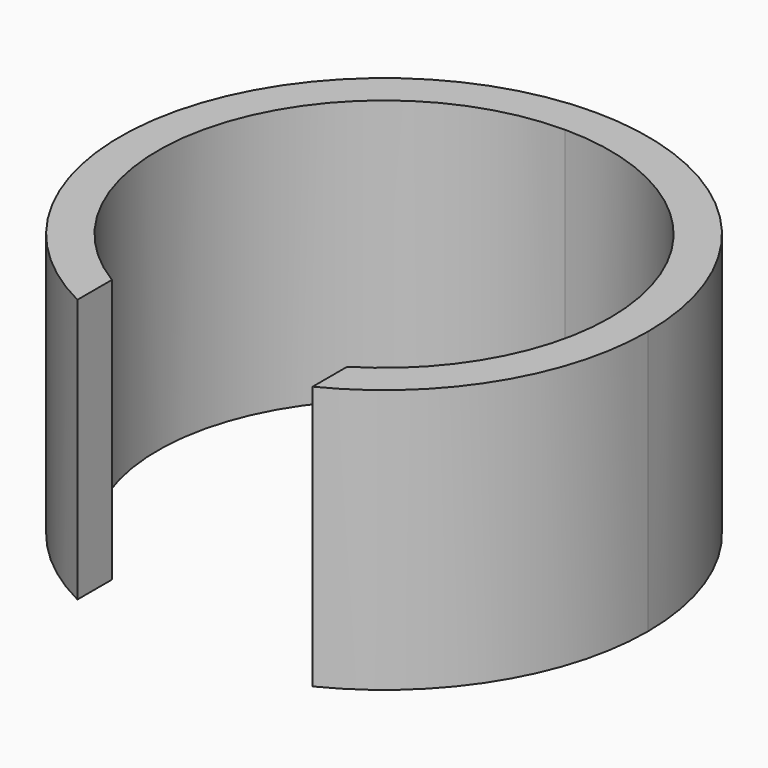
from build123d import *

# Parameters (mm, degrees)
F1_DEPTH = 9


with BuildPart() as f1:
    # F0 (on Top) → F1 (new body)
    with BuildSketch(Plane.XY):
        with BuildLine():
            Line((0, 7.712155), (0, 9))
            ThreePointArc((0, 9), (-8.76106, 2.060057), (-4.01073, -8.056925))
            Line((-4.01073, -8.056925), (-4.01073, -6.587214))
            ThreePointArc((-4.01073, -6.587214), (-7.425596, 2.082753), (0, 7.712155))
        make_face()
        with BuildLine():
            ThreePointArc((4.01073, -8.056925), (7.651685, -4.738324), (9, 0))
            ThreePointArc((9, 0), (6.363961, 6.363961), (0, 9))
            Line((0, 9), (0, 7.712155))
            ThreePointArc((0, 7.712155), (5.453317, 5.453317), (7.712155, 0))
            ThreePointArc((7.712155, 0), (6.723418, -3.77796), (4.01073, -6.587214))
            Line((4.01073, -6.587214), (4.01073, -8.056925))
        make_face()
    extrude(amount=F1_DEPTH)


solid = f1.part
